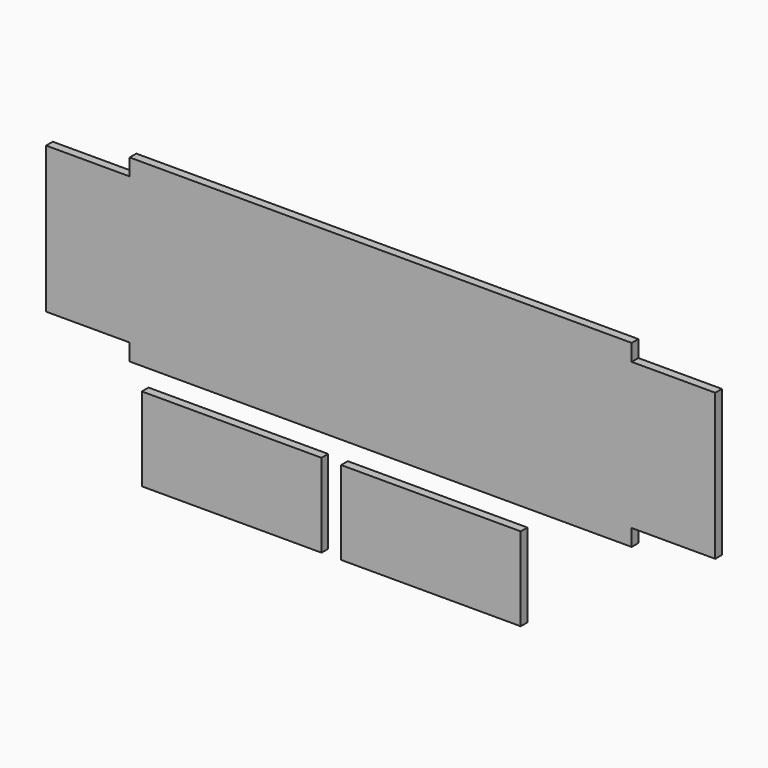
from build123d import *

# Parameters (mm, degrees)
F0_W     = 54.61
F0_H     = 25.4
F1_DEPTH = 2.54


with BuildPart() as f1:
    # F0 (on Front) → F1 (new body)
    with BuildSketch(Plane.XZ):
        Polygon((-52.828705, -17.499613), (-52.828705, -22.579613), (99.774495, -22.579613), (99.774495, -17.499613), (125.174495, -17.499613), (125.174495, 26.950387), (99.774495, 26.950387), (99.774495, 32.030387), (-52.828705, 32.030387), (-52.828705, 26.950387), (-78.228705, 26.950387), (-78.228705, -17.499613), align=None)
        with Locations((38.751589, -42.074936)):
            Rectangle(F0_W, F0_H)
        with Locations((-21.812569, -42.074936)):
            Rectangle(F0_W, F0_H)
    extrude(amount=F1_DEPTH)


solid = f1.part
